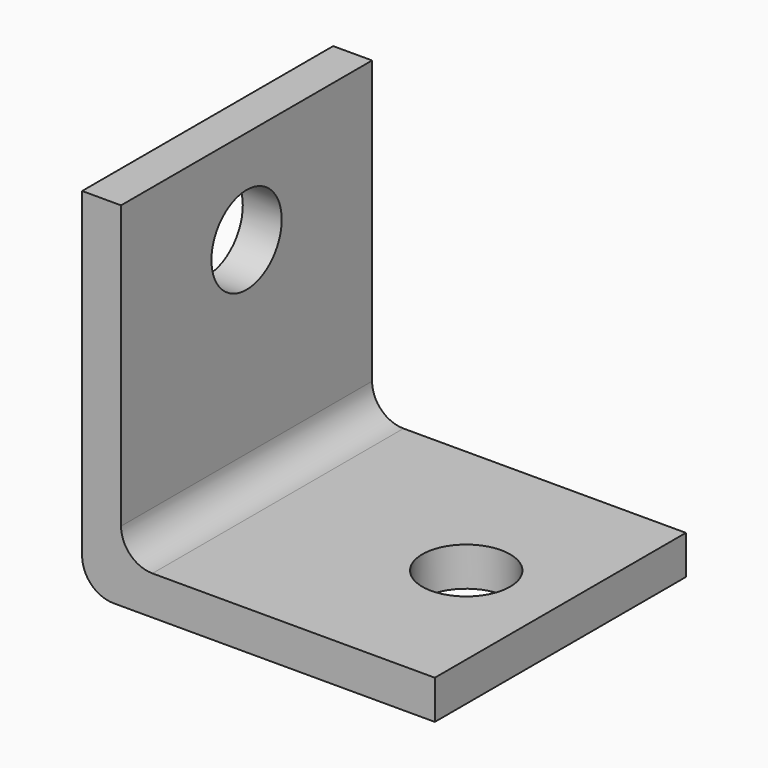
from build123d import *

# Parameters (mm, degrees)
PAD_DEPTH       = 6.35
SKETCH001_R     = 1.778
POCKET_DEPTH    = 14.2758
SKETCH002_R     = 1.778
POCKET001_DEPTH = 14.2758


with BuildPart() as part:
    # Sketch → Pad (new body, symmetric)
    with BuildSketch(Plane.XZ):
        with BuildLine():
            Line((0, 14.2748), (0, 1.27))
            ThreePointArc((0, 1.27), (0.371974, 0.371974), (1.27, 0))
            Line((1.27, 0), (14.2748, 0))
            Line((14.2748, 0), (14.2748, 1.5748))
            Line((14.2748, 1.5748), (2.8448, 1.5748))
            ThreePointArc((1.5748, 2.8448), (1.946774, 1.946774), (2.8448, 1.5748))
            Line((1.5748, 2.8448), (1.5748, 14.2748))
            Line((1.5748, 14.2748), (0, 14.2748))
        make_face()
    extrude(amount=PAD_DEPTH, both=True)

    # Sketch001 → Pocket (cut, through all)
    with BuildSketch(Plane.XY):
        with Locations((10.4648, 0)):
            Circle(SKETCH001_R)
    extrude(amount=POCKET_DEPTH, mode=Mode.SUBTRACT)

    # Sketch002 → Pocket001 (cut, through all)
    with BuildSketch(Plane.YZ):
        with Locations((0, 10.4648)):
            Circle(SKETCH002_R)
    extrude(amount=POCKET001_DEPTH, mode=Mode.SUBTRACT)


solid = part.part
